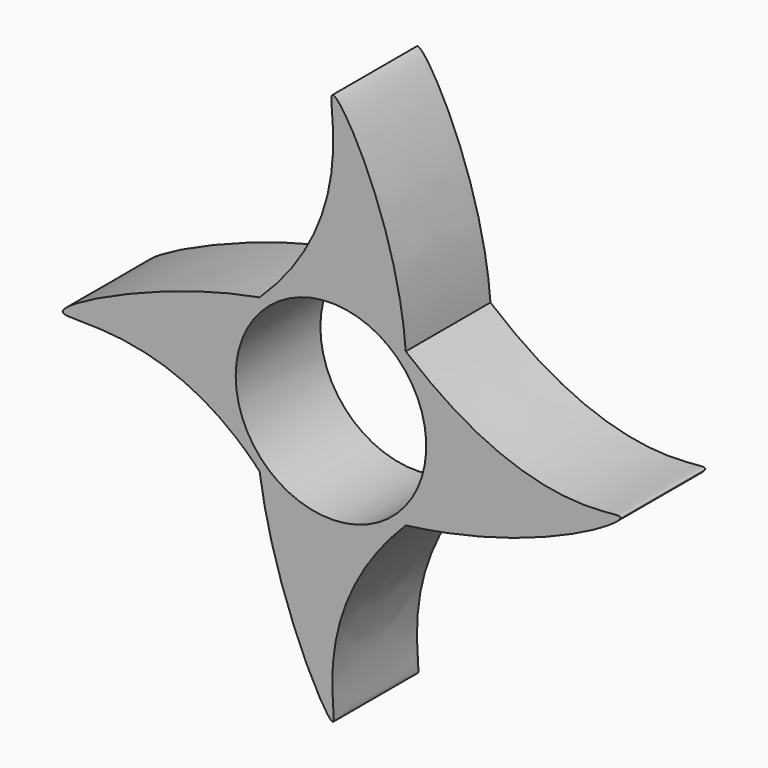
from build123d import *

# Parameters (mm, degrees)
F1_DEPTH = 6.35
F3_D     = 11.43
F3_DEPTH = 25.4


with BuildPart() as f1:
    # F0 (on Front) → F1 (new body)
    with BuildSketch(Plane.XZ):
        with BuildLine():
            ThreePointArc((-35.819092, 15.691353), (-34.365454, 17.786657), (-33.853378, 20.284886))
            ThreePointArc((-33.853378, 20.284886), (-34.365454, 22.783114), (-35.819092, 24.878418))
            ThreePointArc((-35.819092, 24.878418), (-40.203378, 26.634886), (-44.587663, 24.878418))
            ThreePointArc((-44.587663, 24.878418), (-46.548686, 20.528945), (-44.927549, 16.041691))
            add(Edge.make_bspline(
                [(-44.927549, 16.041691), (-44.81393, 15.92811), (-44.700614, 15.81136), (-44.587663, 15.691353)],
                knots=[25.075757, 25.075757, 25.075757, 25.075757, 25.337787, 25.337787, 25.337787, 25.337787], degree=3))
            ThreePointArc((-44.587663, 15.691353), (-40.203378, 13.934886), (-35.819092, 15.691353))
        make_face()
        with BuildLine():
            ThreePointArc((-44.587663, 24.878418), (-40.203378, 26.634886), (-35.819092, 24.878418))
            add(Edge.make_bspline(
                [(-44.587663, 24.878418), (-38.347919, 30.843824), (-43.083301, 42.885957), (-36.29899, 31.356057), (-35.819092, 24.878418)],
                knots=[0, 0, 0, 0, 12.88347, 25.76694, 25.76694, 25.76694, 25.76694], degree=3))
        make_face()
        with BuildLine():
            ThreePointArc((-44.927549, 16.041691), (-46.548686, 20.528945), (-44.587663, 24.878418))
            add(Edge.make_bspline(
                [(-44.587663, 24.878418), (-50.169606, 23.91101), (-62.550365, 17.929967), (-50.307292, 21.41963), (-44.927549, 16.041691)],
                knots=[0, 0, 0, 0, 12.668893, 25.075757, 25.075757, 25.075757, 25.075757], degree=3))
        make_face()
        with BuildLine():
            add(Edge.make_bspline(
                [(-44.587663, 15.691353), (-43.733824, 9.608083), (-37.574358, -1.828031), (-41.93097, 9.608083), (-35.819092, 15.691353)],
                knots=[0, 0, 0, 0, 12.589411, 25.178822, 25.178822, 25.178822, 25.178822], degree=3))
            ThreePointArc((-35.819092, 15.691353), (-40.203378, 13.934886), (-44.587663, 15.691353))
        make_face()
        with BuildLine():
            ThreePointArc((-35.819092, 24.878418), (-34.365454, 22.783114), (-33.853378, 20.284886))
            ThreePointArc((-33.853378, 20.284886), (-34.365454, 17.786657), (-35.819092, 15.691353))
            add(Edge.make_bspline(
                [(-35.819092, 24.878418), (-28.212329, 18.476849), (-17.657736, 22.999454), (-28.212329, 16.663786), (-35.819092, 15.691353)],
                knots=[0, 0, 0, 0, 13.678433, 27.356866, 27.356866, 27.356866, 27.356866], degree=3))
        make_face()
    extrude(amount=F1_DEPTH)

    # F3
    with Locations(Plane.XZ.offset(6.35)):
        with Locations((-40.305141, 20.274019)):
            Hole(F3_D / 2, depth=F3_DEPTH)


solid = f1.part
